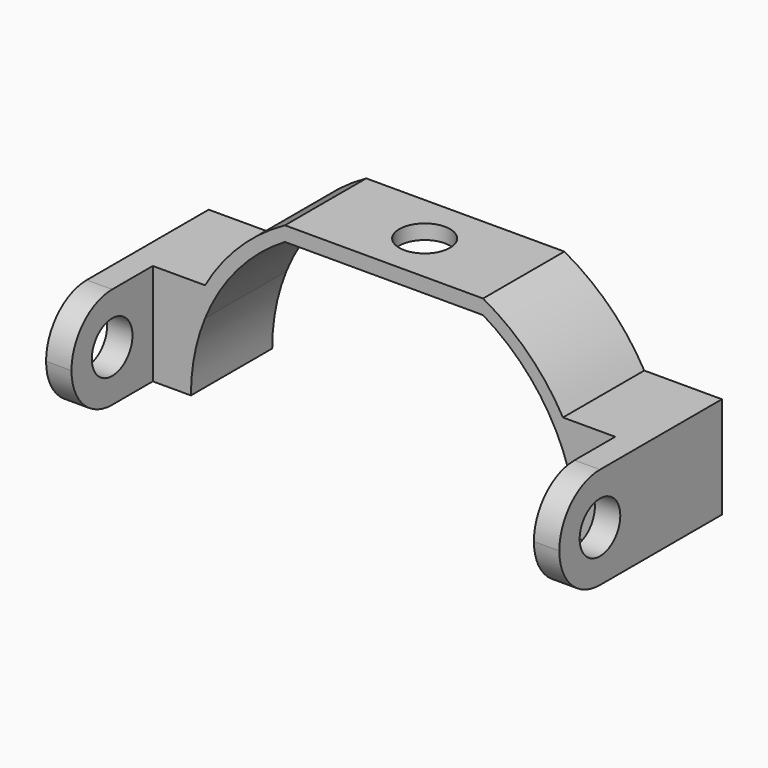
from build123d import *

# Parameters (mm, degrees)
F0_W     = 6.35
F0_H     = 25.4
F1_DEPTH = 25.4
F2_DEPTH = 25.4
F3_R     = 6.35
F4_DEPTH = 76.2
F7_DEPTH = 76.2


with BuildPart() as f1:
    # F0 (on Front) → F1 (new body)
    with BuildSketch(Plane.XZ):
        with BuildLine():
            Line((-44.7294, 18.1192818743), (-44.7294, 25.3937000187))
            ThreePointArc((-44.7294, 25.3937000187), (-49.7303524721, 13.13207021), (-51.435, 0))
            Line((-51.435, 0), (-48.26, 0))
            ThreePointArc((-48.26, 0), (-47.3691273088, 9.2300258938), (-44.7294, 18.1192818743))
        make_face()
        with BuildLine():
            ThreePointArc((-51.435, 0), (-49.7303524721, 13.13207021), (-44.7294, 25.3937000187))
            Line((-44.7294, 25.3937000187), (-44.7294, 25.4))
            Line((-44.7294, 25.4), (-51.435, 25.4))
            Line((-51.435, 25.4), (-51.435, 0))
        make_face()
        with Locations((-54.61, 12.7)):
            Rectangle(F0_W, F0_H)
        with Locations((-60.96, 12.7)):
            Rectangle(F0_W, F0_H)
        with BuildLine():
            ThreePointArc((44.7294, 25.3937000187), (36.1112423463, 36.6270037159), (24.7568576358, 45.085))
            Line((24.7568576358, 45.085), (24.7568576358, 41.426146333))
            ThreePointArc((24.7568576358, 41.426146333), (36.6454292209, 31.4028679776), (44.7294, 18.1192818743))
            Line((44.7294, 18.1192818743), (44.7294, 25.3937000187))
        make_face()
        with BuildLine():
            ThreePointArc((51.435, 0), (49.7303524721, 13.13207021), (44.7294, 25.3937000187))
            Line((44.7294, 25.3937000187), (44.7294, 18.1192818743))
            ThreePointArc((44.7294, 18.1192818743), (47.3691273088, 9.2300258938), (48.26, 0))
            Line((48.26, 0), (51.435, 0))
        make_face()
        with BuildLine():
            Line((44.7294, 25.4), (44.7294, 25.3937000187))
            ThreePointArc((44.7294, 25.3937000187), (49.7303524721, 13.13207021), (51.435, 0))
            Line((51.435, 0), (51.435, 25.4))
            Line((51.435, 25.4), (44.7294, 25.4))
        make_face()
        with Locations((54.61, 12.7)):
            Rectangle(F0_W, F0_H)
        with Locations((60.96, 12.7)):
            Rectangle(F0_W, F0_H)
        with BuildLine():
            Line((-24.7568576358, 41.426146333), (-24.7568576358, 45.085))
            ThreePointArc((-24.7568576358, 45.085), (-36.1112423463, 36.6270037159), (-44.7294, 25.3937000187))
            Line((-44.7294, 25.3937000187), (-44.7294, 18.1192818743))
            ThreePointArc((-44.7294, 18.1192818743), (-36.6454292209, 31.4028679776), (-24.7568576358, 41.426146333))
        make_face()
        with BuildLine():
            ThreePointArc((24.7568576358, 41.426146333), (21.0657218153, 43.419614973), (17.2154109739, 45.085))
            Line((17.2154109739, 45.085), (0, 45.085))
            Line((0, 45.085), (-17.2154109739, 45.085))
            ThreePointArc((-17.2154109739, 45.085), (-21.0657218153, 43.419614973), (-24.7568576358, 41.426146333))
            Line((-24.7568576358, 41.426146333), (24.7568576358, 41.426146333))
        make_face()
        with BuildLine():
            Line((-17.2154109739, 45.085), (-24.7568576358, 45.085))
            Line((-24.7568576358, 45.085), (-24.7568576358, 41.426146333))
            ThreePointArc((-24.7568576358, 41.426146333), (-21.0657218153, 43.419614973), (-17.2154109739, 45.085))
        make_face()
        with BuildLine():
            Line((24.7568576358, 41.426146333), (24.7568576358, 45.085))
            Line((24.7568576358, 45.085), (17.2154109739, 45.085))
            ThreePointArc((17.2154109739, 45.085), (21.0657218153, 43.419614973), (24.7568576358, 41.426146333))
        make_face()
    extrude(amount=-F1_DEPTH)

    # F0 (on Front) → F2 (join)
    with BuildSketch(Plane.XZ):
        with Locations((60.96, 12.7)):
            Rectangle(F0_W, F0_H)
        with Locations((-60.96, 12.7)):
            Rectangle(F0_W, F0_H)
    extrude(amount=F2_DEPTH)


with BuildPart() as f4:
    # F3 (on Right) → F4 (new body, symmetric)
    with BuildSketch(Plane.YZ):
        with Locations((-12.7, 12.7)):
            Circle(F3_R)
    extrude(amount=F4_DEPTH, both=True)


with BuildPart() as f4b:
    # F3 (on Right) → F4, piece 2 (new body, symmetric)
    with BuildSketch(Plane.YZ):
        with BuildLine():
            ThreePointArc((-25.4, 12.7), (-21.6802561211, 21.6802561211), (-12.7, 25.4))
            Line((-12.7, 25.4), (-25.4, 25.4))
            Line((-25.4, 25.4), (-25.4, 12.7))
        make_face()
    extrude(amount=F4_DEPTH, both=True)


with BuildPart() as f4c:
    # F3 (on Right) → F4, piece 3 (new body, symmetric)
    with BuildSketch(Plane.YZ):
        with BuildLine():
            Line((-25.4, 0), (-12.7, 0))
            ThreePointArc((-12.7, 0), (-21.6802561211, 3.7197438789), (-25.4, 12.7))
            Line((-25.4, 12.7), (-25.4, 0))
        make_face()
    extrude(amount=F4_DEPTH, both=True)


with BuildPart() as f1_1:
    add(f1.part)

    # F5: cut F4b, F4, F4c
    add(f4b.part, mode=Mode.SUBTRACT)
    add(f4.part, mode=Mode.SUBTRACT)
    add(f4c.part, mode=Mode.SUBTRACT)


with BuildPart() as f7:
    # F6 (on Top) → F7 (new body)
    with BuildSketch(Plane.XY):
        with BuildLine():
            ThreePointArc((0, 6.35), (4.4901280605, 8.2098719395), (6.35, 12.7))
            ThreePointArc((6.35, 12.7), (-4.4901280605, 17.1901280605), (0, 6.35))
        make_face()
    extrude(amount=F7_DEPTH)


with BuildPart() as f1_2:
    add(f1_1.part)

    # F8: cut F7
    add(f7.part, mode=Mode.SUBTRACT)


solid = f1_2.part
